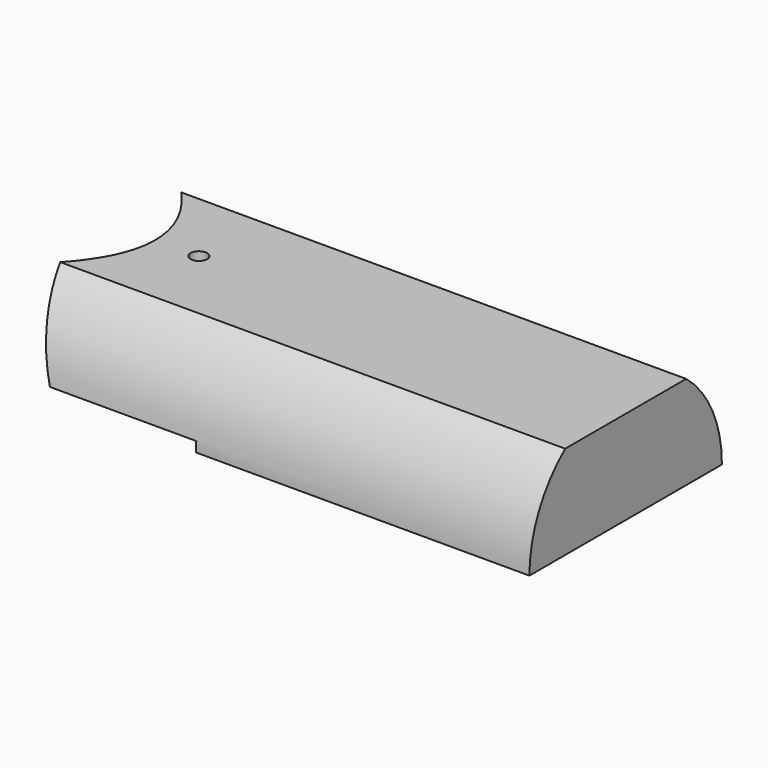
from build123d import *

# Parameters (mm, degrees)
CYLINDER001_R     = 2.185
CYLINDER001_DEPTH = 9.314408
BOX_W             = 9.314408
BOX_H             = 4.37
BOX_DEPTH         = 0.935
BOX001_W          = 3.259408
BOX001_H          = 4.37
BOX001_DEPTH      = 0.63
BOX002_W          = 9.314408
BOX002_H          = 4.37
BOX002_DEPTH      = 0.55
CYLINDER_R        = 0.15
CYLINDER_DEPTH    = 2.185
REVOLUTION_ANGLE  = 180


with BuildPart() as volumelimit:
    # Cylinder001 → Cylinder001 (new body)
    with BuildSketch(Plane(origin=(-1.564408, 0, 0), x_dir=(0, 0, -1), z_dir=(1, 0, 0))):
        Circle(CYLINDER001_R)
    extrude(amount=CYLINDER001_DEPTH)


with BuildPart() as upperedgecuttingtool:
    # Box → Box (new body)
    with BuildSketch(Plane(origin=(-1.564408, -2.185, 1.7), x_dir=(1, 0, 0), z_dir=(0, 0, 1))):
        with Locations((4.657204, 2.185)):
            Rectangle(BOX_W, BOX_H)
    extrude(amount=BOX_DEPTH)


with BuildPart() as lowerstepcuttingtool:
    # Box001 → Box001 (new body)
    with BuildSketch(Plane(origin=(-1.564408, -2.185, -0.45), x_dir=(1, 0, 0), z_dir=(0, 0, 1))):
        with Locations((1.629704, 2.185)):
            Rectangle(BOX001_W, BOX001_H)
    extrude(amount=BOX001_DEPTH)


with BuildPart() as obj1:
    # Box002 → Box002 (new body)
    with BuildSketch(Plane(origin=(-1.564408, -2.185, -0.55), x_dir=(1, 0, 0), z_dir=(0, 0, 1))):
        with Locations((4.657204, 2.185)):
            Rectangle(BOX002_W, BOX002_H)
    extrude(amount=BOX002_DEPTH)


with BuildPart() as cuttingtools:
    # Cylinder → Cylinder (new body)
    with BuildSketch(Plane.XY):
        Circle(CYLINDER_R)
    extrude(amount=CYLINDER_DEPTH)

    # Fusion: union UpperEdgeCuttingTool, LowerStepCuttingTool, obj1
    add(upperedgecuttingtool.part)
    add(lowerstepcuttingtool.part)
    add(obj1.part)


with BuildPart() as mirrorwithoutmount:
    # Sketch → Revolution (revolve)
    with BuildSketch(Plane.XY):
        with BuildLine():
            Line((0.75, 0), (7.75, 0))
            Line((7.75, 0), (7.75, 2.635))
            Line((7.75, 2.635), (-1.564408, 2.635))
            add(Edge.make_bspline(
                [(-1.564408, 2.635), (0.75, 1.3175), (0.75, 0)],
                knots=[-2.635, -2.635, -2.635, 0, 0, 0], degree=2))
        make_face()
    revolve(axis=Axis((0, 0, 0), (1, 0, 0)), revolution_arc=REVOLUTION_ANGLE)


with BuildPart() as mirrorwithoutmount_1:
    # Body001 placement: moved
    add(mirrorwithoutmount.part.moved(Location((0, 0, -0.45))))

    # Cut: cut CuttingTools
    add(cuttingtools.part, mode=Mode.SUBTRACT)

    # Common: intersect VolumeLimit
    add(volumelimit.part, mode=Mode.INTERSECT)


solid = mirrorwithoutmount_1.part
